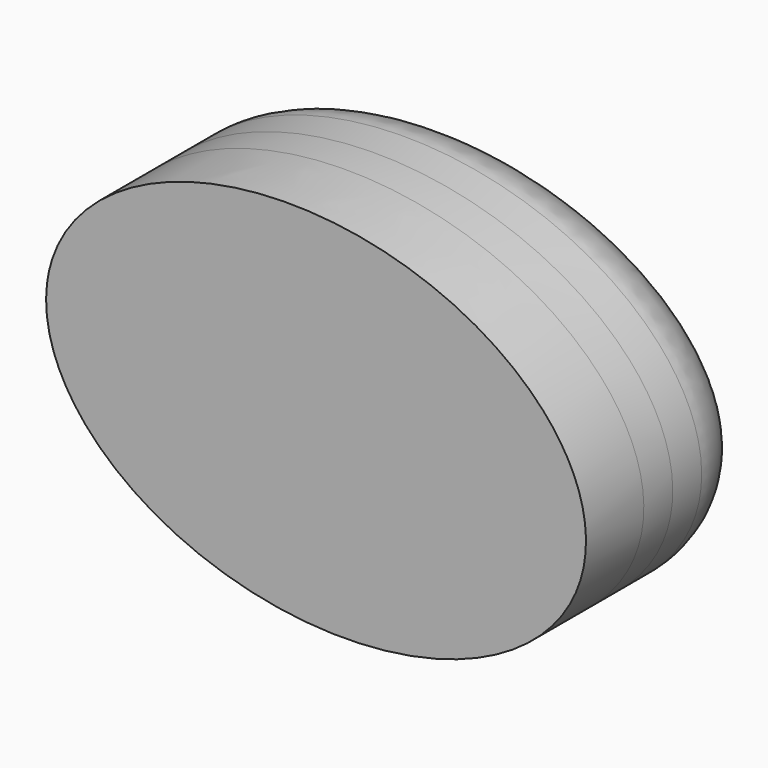
from build123d import *

# Parameters (mm, degrees)
F1_DEPTH = 5.08
F2_DEPTH = 2.54
F3_DEPTH = 7.62
F4_R     = 5.08


with BuildPart() as f1:
    # F0 (on Front) → F1 (new body)
    with BuildSketch(Plane.XZ):
        with BuildLine():
            add(Edge.make_bspline(
                [(-18.9064626827, 2.3341312791), (-21.6016853273, -19.4971713594), (8.105620019, -12.0827169588), (37.8129253654, -4.6682625582), (10.8008426637, 9.7485856797), (-16.211240038, 24.1654339177), (-18.9064626827, 2.3341312791)],
                knots=[0, 0, 0, 2.0943951024, 2.0943951024, 4.1887902048, 4.1887902048, 6.2831853072, 6.2831853072, 6.2831853072], degree=2, weights=[1, 0.5, 1, 0.5, 1, 0.5, 1]))
        make_face()
    extrude(amount=F1_DEPTH)

    # F2 (add): a face of the model
    f2_faces = [f1.faces().sort_by_distance(p)[0] for p in [
        (-0.0294284101, 0, 0.0155791619),
    ]]
    extrude(f2_faces, amount=F2_DEPTH)

    # F3 (add): a face of the model
    f3_faces = [f1.faces().sort_by_distance(p)[0] for p in [
        (-0.0294284101, 2.54, 0.0155791619),
    ]]
    extrude(f3_faces, amount=F3_DEPTH)

    # F4
    f4_edges = [f1.edges().sort_by_distance(p)[0] for p in [
        (18.906463, 10.16, -2.334131),
    ]]
    fillet(f4_edges, radius=F4_R)


solid = f1.part
